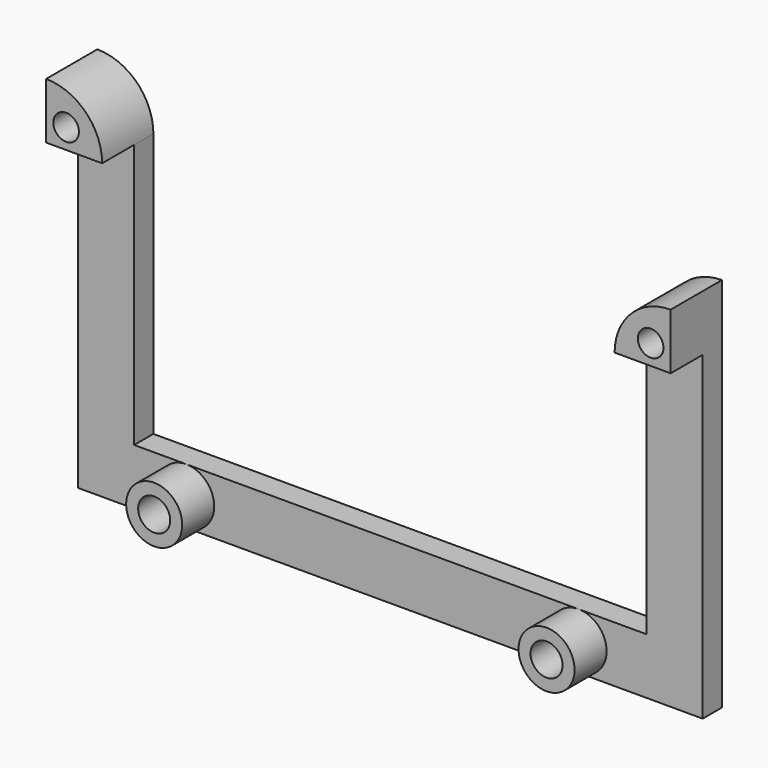
from build123d import *

# Parameters (mm, degrees)
CYLINDER032_R     = 2
CYLINDER032_DEPTH = 8
CYLINDER035_R     = 2
CYLINDER035_DEPTH = 8
CYLINDER038_R     = 1.6
CYLINDER038_DEPTH = 8
CYLINDER039_R     = 1.6
CYLINDER039_DEPTH = 8
CYLINDER037_W     = 7
CYLINDER037_H     = 8
CYLINDER037_ANGLE = 90
BOX025_W          = 78
BOX025_H          = 3
BOX025_DEPTH      = 7
BOX026_W          = 40
BOX026_H          = 3
BOX026_DEPTH      = 7
CYLINDER034_R     = 3.5
CYLINDER034_DEPTH = 8
CYLINDER031_R     = 3.5
CYLINDER031_DEPTH = 8
BOX027_W          = 40
BOX027_H          = 3
BOX027_DEPTH      = 7
CYLINDER036_W     = 7
CYLINDER036_H     = 8
CYLINDER036_ANGLE = 90


with BuildPart() as cuts:
    # Cylinder032 → Cylinder032 (new body)
    with BuildSketch(Plane(origin=(13.5, -2, 61.5), x_dir=(1, 0, 0), z_dir=(0, -1, 0))):
        Circle(CYLINDER032_R)
    extrude(amount=CYLINDER032_DEPTH)


with BuildPart() as cuts001:
    # Cylinder035 → Cylinder035 (new body)
    with BuildSketch(Plane(origin=(62.5, -2, 61.5), x_dir=(1, 0, 0), z_dir=(0, -1, 0))):
        Circle(CYLINDER035_R)
    extrude(amount=CYLINDER035_DEPTH)


with BuildPart() as m3screw:
    # Cylinder038 → Cylinder038 (new body)
    with BuildSketch(Plane(origin=(75.5, -2, 100.5), x_dir=(1, 0, 0), z_dir=(0, -1, 0))):
        Circle(CYLINDER038_R)
    extrude(amount=CYLINDER038_DEPTH)


with BuildPart() as c4oldcuts:
    # Cylinder039 → Cylinder039 (new body)
    with BuildSketch(Plane(origin=(2.5, -2, 100.5), x_dir=(1, 0, 0), z_dir=(0, -1, 0))):
        Circle(CYLINDER039_R)
    extrude(amount=CYLINDER039_DEPTH)

    # Fusion016: union cuts, cuts001, m3Screw
    add(cuts.part)
    add(cuts001.part)
    add(m3screw.part)


with BuildPart() as cylinder037:
    # Cylinder037 → Cylinder037 (revolve)
    with BuildSketch(Plane(origin=(0, -2, 98), x_dir=(1, 0, 0), z_dir=(0, 0, -1))):
        with Locations((3.5, 4)):
            Rectangle(CYLINDER037_W, CYLINDER037_H)
    revolve(axis=Axis((0, -2, 98), (0, -1, 0)), revolution_arc=CYLINDER037_ANGLE)


with BuildPart() as cube020:
    # Box025 → Box025 (new body)
    with BuildSketch(Plane(origin=(0, -5, 58), x_dir=(1, 0, 0), z_dir=(0, 0, 1))):
        with Locations((39, 1.5)):
            Rectangle(BOX025_W, BOX025_H)
    extrude(amount=BOX025_DEPTH)


with BuildPart() as cube021:
    # Box026 → Box026 (new body)
    with BuildSketch(Plane(origin=(7, -5, 58), x_dir=(0, 0, 1), z_dir=(-1, 0, 0))):
        with Locations((20, 1.5)):
            Rectangle(BOX026_W, BOX026_H)
    extrude(amount=BOX026_DEPTH)


with BuildPart() as cylinder034:
    # Cylinder034 → Cylinder034 (new body)
    with BuildSketch(Plane(origin=(62.5, -2, 61.5), x_dir=(1, 0, 0), z_dir=(0, -1, 0))):
        Circle(CYLINDER034_R)
    extrude(amount=CYLINDER034_DEPTH)


with BuildPart() as cylinder031:
    # Cylinder031 → Cylinder031 (new body)
    with BuildSketch(Plane(origin=(13.5, -2, 61.5), x_dir=(1, 0, 0), z_dir=(0, -1, 0))):
        Circle(CYLINDER031_R)
    extrude(amount=CYLINDER031_DEPTH)


with BuildPart() as fusion014:
    # Box027 → Box027 (new body)
    with BuildSketch(Plane(origin=(78, -5, 58), x_dir=(0, 0, 1), z_dir=(-1, 0, 0))):
        with Locations((20, 1.5)):
            Rectangle(BOX027_W, BOX027_H)
    extrude(amount=BOX027_DEPTH)

    # Fusion014: union Cube020, Cube021, Cylinder034, Cylinder031
    add(cube020.part)
    add(cube021.part)
    add(cylinder034.part)
    add(cylinder031.part)


with BuildPart() as c4hold001:
    # Cylinder036 → Cylinder036 (revolve)
    with BuildSketch(Plane(origin=(78, -2, 98), x_dir=(0, 0, 1), z_dir=(1, 0, 0))):
        with Locations((3.5, 4)):
            Rectangle(CYLINDER036_W, CYLINDER036_H)
    revolve(axis=Axis((78, -2, 98), (0, -1, 0)), revolution_arc=CYLINDER036_ANGLE)

    # Fusion015: union Cylinder037, Fusion014
    add(cylinder037.part)
    add(fusion014.part)

    # Cut024: cut c4oldCuts
    add(c4oldcuts.part, mode=Mode.SUBTRACT)


solid = c4hold001.part
